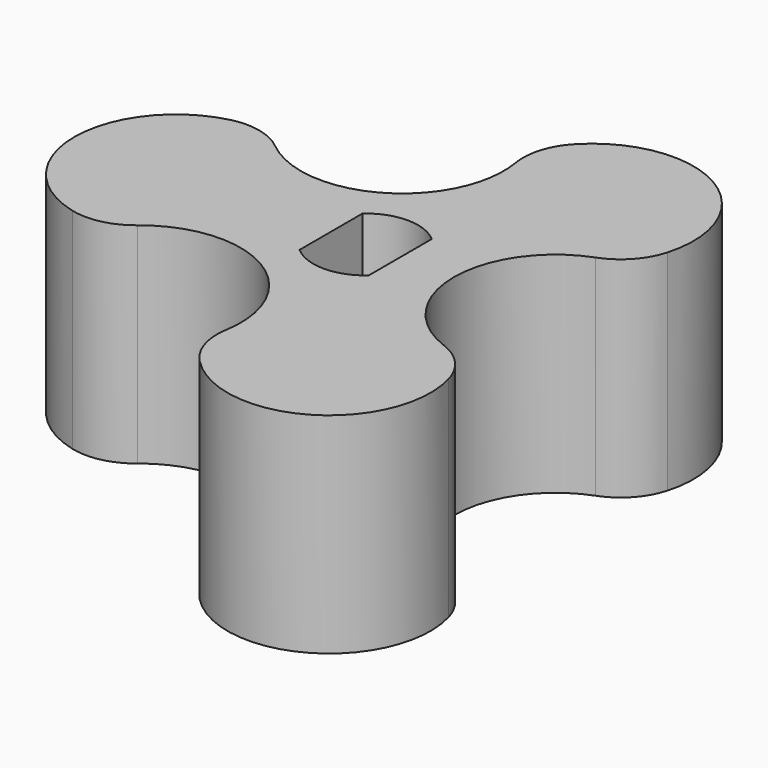
from build123d import *

# Parameters (mm, degrees)
F1_DEPTH = 10
F3_DEPTH = 10.001
F4_R     = 3


with BuildPart() as f1:
    # F0 (on Top) → F1 (new body)
    with BuildSketch(Plane.XY):
        with BuildLine():
            ThreePointArc((8.269933, 4.774648), (6.943567, 12.026611), (0, 9.549297))
            ThreePointArc((0, 9.549297), (0.313189, 7.836921), (0, 6.124545))
            ThreePointArc((0, 6.124545), (-3.745285, 3.062272), (-8.269933, 4.774648))
            ThreePointArc((-8.269933, 4.774648), (-13.887134, 0), (-8.269933, -4.774648))
            ThreePointArc((-8.269933, -4.774648), (-2.105729, -3.64723), (0, -9.549297))
            ThreePointArc((0, -9.549297), (6.943567, -12.026611), (8.269933, -4.774648))
            ThreePointArc((8.269933, -4.774648), (4.211459, 0), (8.269933, 4.774648))
        make_face()
    extrude(amount=F1_DEPTH)

    # F2 (on face) → F3 (cut, through all)
    with BuildSketch(Plane.XY.offset(10)):
        with BuildLine():
            Line((-1.65, 1.878164), (-1.65, -1.878164))
            ThreePointArc((-1.65, -1.878164), (0, -2.5), (1.65, -1.878164))
            Line((1.65, -1.878164), (1.65, 1.878164))
            ThreePointArc((1.65, 1.878164), (0, 2.5), (-1.65, 1.878164))
        make_face()
    extrude(amount=-F3_DEPTH, mode=Mode.SUBTRACT)

    # F4
    f4_edges = [f1.edges().sort_by_distance(p)[0] for p in [
        (0, 9.549297, 5),
        (8.269933, 4.774648, 5),
        (8.269933, -4.774648, 5),
        (-8.269933, -4.774648, 5),
        (-8.269933, 4.774648, 5),
        (0, -9.549297, 5),
    ]]
    fillet(f4_edges, radius=F4_R)


solid = f1.part
